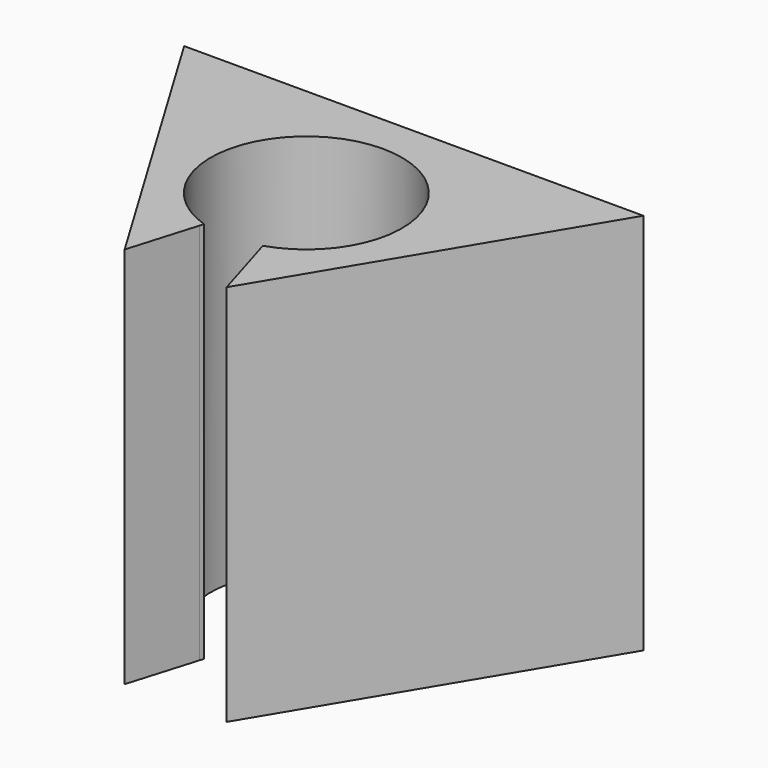
from build123d import *

# Parameters (mm, degrees)
F3_DEPTH = 12.7
F4_DEPTH = 12.7
F1_R     = 3.175
F5_DEPTH = 12.7


with BuildPart() as f3:
    # F0 (on Top) → F3 (new body)
    with BuildSketch(Plane.XY):
        Polygon((0, -10.16), (0, 0), (-7.62, 0), (-1.524, -10.16), align=None)
        Polygon((7.62, 0), (0, 0), (0, -10.16), (1.524, -10.16), align=None)
    extrude(amount=F3_DEPTH)

    # F2 (on face) → F4 (cut)
    with BuildSketch(Plane.XY):
        Polygon((0, -5.08), (0, -7.62), (1.016, -7.62), (0.254, -5.08), align=None)
        Polygon((1.016, -7.62), (0, -7.62), (-1.016, -7.62), (-2.078659, -11.162197), (2.078659, -11.162197), align=None)
        Polygon((-1.016, -7.62), (0, -7.62), (0, -5.08), (-0.254, -5.08), align=None)
    extrude(amount=F4_DEPTH, mode=Mode.SUBTRACT)

    # F1 (on face) → F5 (cut)
    with BuildSketch(Plane.XY):
        with Locations((0, -4.456545)):
            Circle(F1_R)
    extrude(amount=F5_DEPTH, mode=Mode.SUBTRACT)


solid = f3.part
